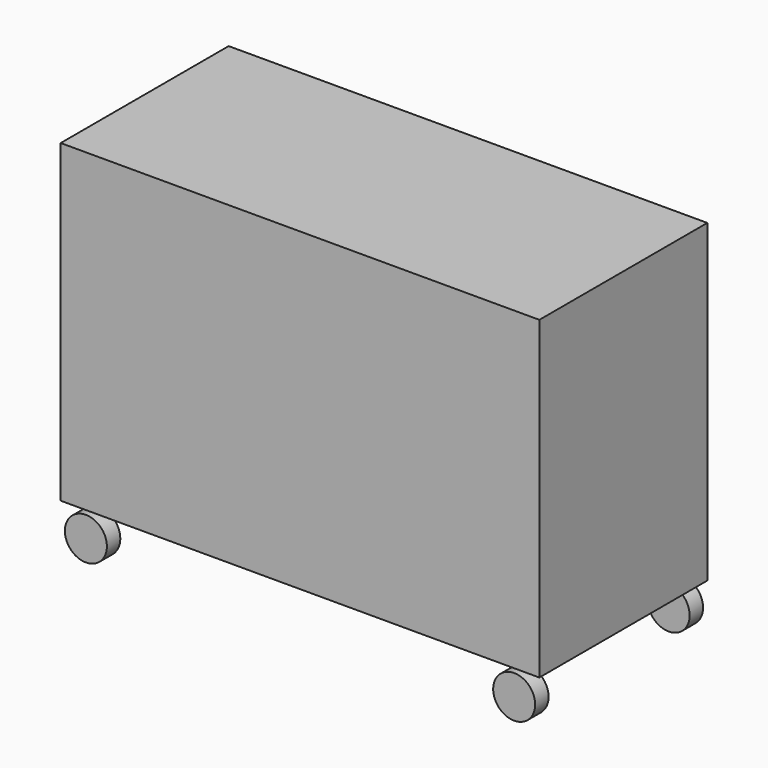
from build123d import *

# Parameters (mm, degrees)
F0_W     = 1447.8
F0_H     = 952.5
F1_DEPTH = 635
F0_R     = 63.5
F2_DEPTH = 50.8


with BuildPart() as f1:
    # F0 (on Front) → F1 (new body)
    with BuildSketch(Plane.XZ):
        with Locations((0, 476.25)):
            Rectangle(F0_W, F0_H)
    extrude(amount=F1_DEPTH)


with BuildPart() as f2:
    # F0 (on Front) → F2 (new body)
    with BuildSketch(Plane.XZ):
        with Locations((647.7, -76.2)):
            Circle(F0_R)
    extrude(amount=F2_DEPTH)


with BuildPart() as f2b:
    # F0 (on Front) → F2, piece 2 (new body)
    with BuildSketch(Plane.XZ):
        with Locations((-647.7, -76.2)):
            Circle(F0_R)
    extrude(amount=F2_DEPTH)


with BuildPart() as f5_1:
    # F5: instance of F2
    add(f2.part.mirror(Plane.XZ.offset(317.5)))


with BuildPart() as f5_2:
    # F5: instance of F2b
    add(f2b.part.mirror(Plane.XZ.offset(317.5)))


solid = Compound([f1.part, f2.part, f2b.part, f5_1.part, f5_2.part])
